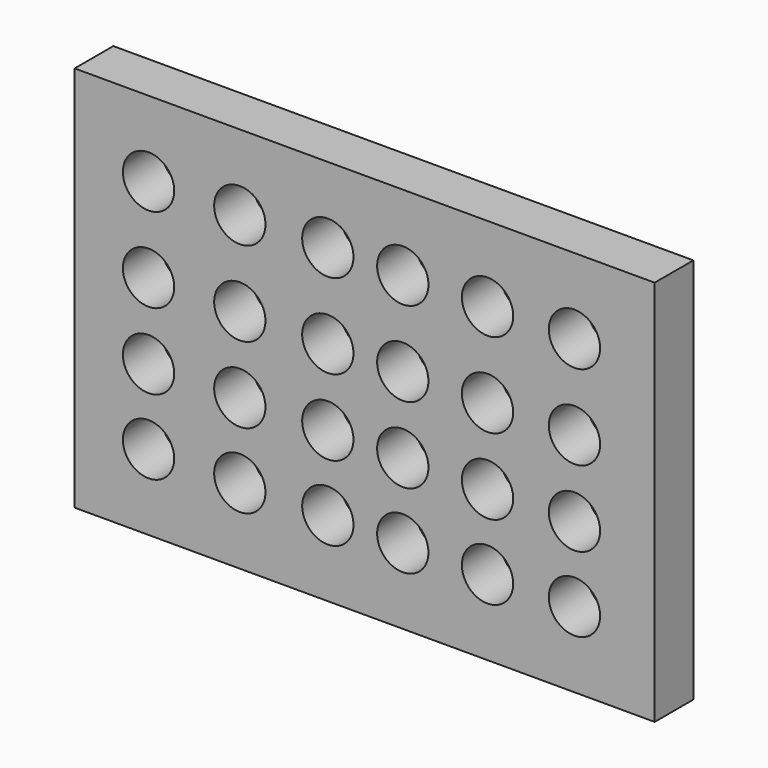
from build123d import *

# Parameters (mm, degrees)
F0_W     = 152.4
F0_H     = 101.6
F1_DEPTH = 12.7
F3_D     = 13.4874


with BuildPart() as f1:
    # F0 (on Front) → F1 (new body)
    with BuildSketch(Plane.XZ):
        with Locations((2.237267, 50.8)):
            Rectangle(F0_W, F0_H)
    extrude(amount=F1_DEPTH)

    # F3 (through all)
    with Locations(Plane.XZ.offset(12.7)):
        with Locations((-54.545812, 81.781007), (-54.545812, 59.515227), (-54.545812, 39.53312), (-7.445125, 81.781007), (-7.445125, 59.515227), (-7.445125, 39.53312), (-7.445125, 19.836467), (-30.567281, 81.781007), (-30.567281, 59.515227), (-30.567281, 39.53312), (-30.567281, 19.836467), (-54.545812, 19.836467), (12.251527, 81.781007), (12.251527, 59.515227), (12.251527, 39.53312), (12.251527, 19.836467), (34.517307, 19.836467), (34.517307, 39.53312), (34.517307, 59.515227), (34.517307, 81.781007), (57.354003, 81.781007), (57.354003, 59.515227), (57.354003, 39.53312), (57.354003, 19.836467)):
            Hole(F3_D / 2)


solid = f1.part
